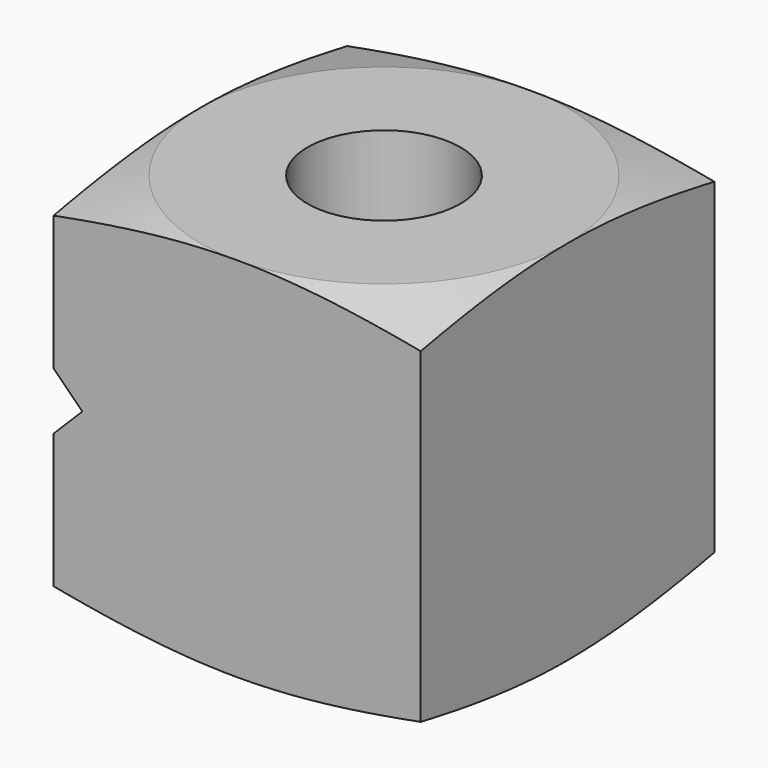
from build123d import *

# Parameters (mm, degrees)
F0_W      = 19.05
F0_H      = 19.05
F1_DEPTH  = 19.05
F2_R      = 3.96875
F3_DEPTH  = 19.051
F10_DEPTH = 12.7
F12_DEPTH = 25.4


with BuildPart() as f1:
    # F0 (on Top) → F1 (new body)
    with BuildSketch(Plane.XY):
        Rectangle(F0_W, F0_H)
    extrude(amount=F1_DEPTH)

    # F2 (on face) → F3 (cut, through all)
    with BuildSketch(Plane.XY.offset(19.05)):
        Circle(F2_R)
    extrude(amount=-F3_DEPTH, mode=Mode.SUBTRACT)

    # F4 (on Right) → F5 (revolve, cut)
    with BuildSketch(Plane.YZ):
        Polygon((24.765, 19.05), (9.525, 19.05), (24.765, 14.9664543073), align=None)
    revolve(axis=Axis((0, 0, 19.05), (0, 0, 1)), mode=Mode.SUBTRACT)

    # F7 (on Right) → F8 (revolve, cut)
    with BuildSketch(Plane.YZ):
        Polygon((-22.8305501432, 0), (-9.525, 0), (-22.8305501432, 3.5652114157), align=None)
    revolve(axis=Axis((0, 0, 0), (0, 0, -1)), mode=Mode.SUBTRACT)

    # F9 (on Front) → F10 (cut, symmetric)
    with BuildSketch(Plane.XZ):
        Polygon((-9.525, 8.7912914261), (-9.525, 9.525), (-10.3787914261, 7.9375), align=None)
    extrude(amount=F10_DEPTH, both=True, mode=Mode.SUBTRACT)

    # F11 (on face) → F12 (cut)
    with BuildSketch(Plane(origin=(0, 9.525, 0), x_dir=(-1, 0, 0), z_dir=(0, 1, 0))):
        Polygon((9.525, 8.0361114815), (9.525, 9.525), (8.0361114815, 9.525), align=None)
        Polygon((8.0361114815, 9.525), (9.525, 9.525), (9.525, 11.0138885185), align=None)
    extrude(amount=-F12_DEPTH, mode=Mode.SUBTRACT)


solid = f1.part
